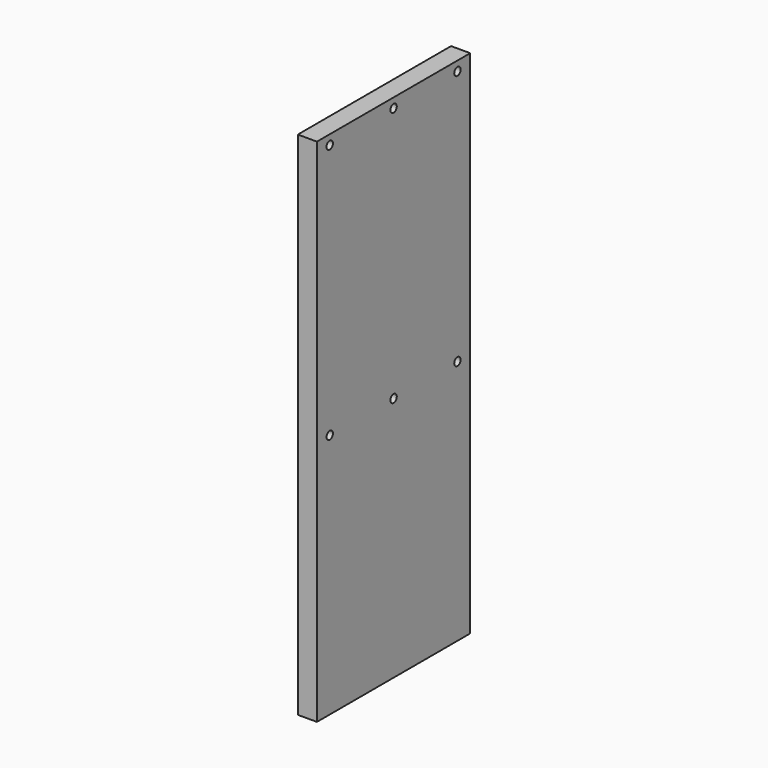
from build123d import *

# Parameters (mm, degrees)
F0_W     = 60
F0_H     = 160
F0_R     = 1.25
F1_DEPTH = 6


with BuildPart() as f1:
    # F0 (on Right) → F1 (new body)
    with BuildSketch(Plane.YZ):
        with Locations((30, 80)):
            Rectangle(F0_W, F0_H)
        with Locations((5, 77)):
            Circle(F0_R, mode=Mode.SUBTRACT)
        with Locations((30, 77)):
            Circle(F0_R, mode=Mode.SUBTRACT)
        with Locations((55, 77)):
            Circle(F0_R, mode=Mode.SUBTRACT)
        with Locations((5, 157)):
            Circle(F0_R, mode=Mode.SUBTRACT)
        with Locations((30, 157)):
            Circle(F0_R, mode=Mode.SUBTRACT)
        with Locations((55, 157)):
            Circle(F0_R, mode=Mode.SUBTRACT)
    extrude(amount=F1_DEPTH)


solid = f1.part
